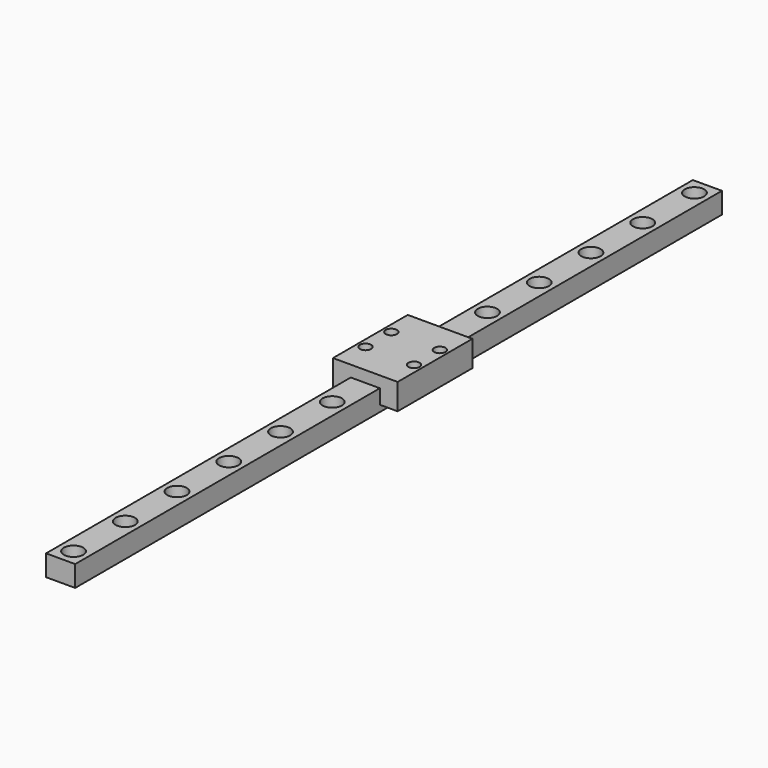
from build123d import *

# Parameters (mm, degrees)
SKETCH_W               = 9
SKETCH_H               = 250
PAD_DEPTH              = 6.5
SKETCH001_R            = 1.75
POCKET_DEPTH           = 6.5
LINEARPATTERN_COUNT    = 13
LINEARPATTERN_PITCH    = 20
SKETCH002_R            = 3
POCKET001_DEPTH        = 3.5
LINEARPATTERN001_COUNT = 13
LINEARPATTERN001_PITCH = 20
SKETCH005_W            = 20
SKETCH005_H            = 28.9
SKETCH005_R            = 1.75
PAD002_DEPTH           = 8


with BuildPart() as part:
    # Sketch → Pad (new body)
    with BuildSketch(Plane.XY):
        with Locations((0, 125)):
            Rectangle(SKETCH_W, SKETCH_H)
    extrude(amount=-PAD_DEPTH)

    # Sketch001 → Pocket (cut)
    with BuildSketch(Plane.XY):
        with Locations((0, 5)):
            Circle(SKETCH001_R)
    pocket = extrude(amount=-POCKET_DEPTH, mode=Mode.SUBTRACT)

    # LinearPattern: Pocket ×13
    with Locations(*[(0, i * LINEARPATTERN_PITCH, 0) for i in range(1, LINEARPATTERN_COUNT)]):
        add(pocket, mode=Mode.SUBTRACT)

    # Sketch002 → Pocket001 (cut)
    with BuildSketch(Plane.XY):
        with Locations((0, 5)):
            Circle(SKETCH002_R)
    pocket001 = extrude(amount=-POCKET001_DEPTH, mode=Mode.SUBTRACT)

    # LinearPattern001: Pocket001 ×13
    with Locations(*[(0, i * LINEARPATTERN001_PITCH, 0) for i in range(1, LINEARPATTERN001_COUNT)]):
        add(pocket001, mode=Mode.SUBTRACT)

    # Sketch005 → Pad002 (join)
    with BuildSketch(Plane.XY.offset(-4.5)):
        with Locations((0, 132.225)):
            Rectangle(SKETCH005_W, SKETCH005_H)
        with Locations((-7.5, 137.225)):
            Circle(SKETCH005_R, mode=Mode.SUBTRACT)
        with Locations((7.5, 137.225)):
            Circle(SKETCH005_R, mode=Mode.SUBTRACT)
        with Locations((7.5, 127.225)):
            Circle(SKETCH005_R, mode=Mode.SUBTRACT)
        with Locations((-7.5, 127.225)):
            Circle(SKETCH005_R, mode=Mode.SUBTRACT)
    extrude(amount=PAD002_DEPTH)


solid = part.part
